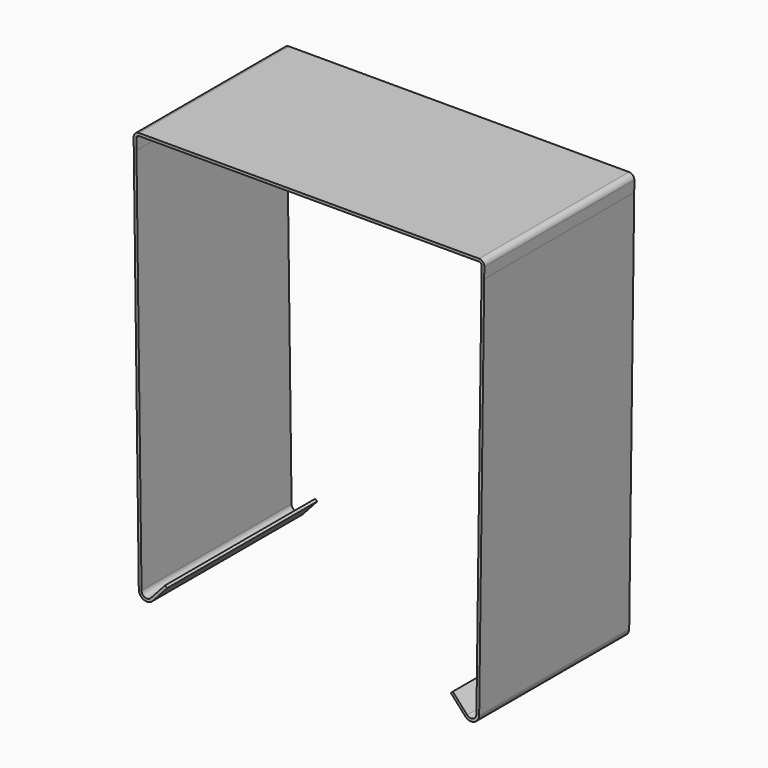
from build123d import *

# Parameters (mm, degrees)
F1_DEPTH = 35


with BuildPart() as f1:
    # F0 (on Front) → F1 (new body)
    with BuildSketch(Plane.XZ):
        with BuildLine():
            Line((12.085786, 0), (0, 0))
            Line((0, 0), (0, -0.5))
            Line((0, -0.5), (12.085786, -0.5))
            Line((12.085786, -0.5), (31.724476, -0.5))
            ThreePointArc((31.724476, -0.5), (32.080347, -0.64878), (32.224432, -1.006578))
            Line((32.224432, -1.006578), (32.197876, -3.025085))
            Line((32.197876, -3.025085), (31.25063, -75.025085))
            ThreePointArc((31.25063, -75.025085), (30.612597, -75.944154), (29.521571, -75.696289))
            Line((29.521571, -75.696289), (26.838608, -72.729523))
            Line((26.838608, -72.729523), (26.467762, -73.064893))
            Line((26.467762, -73.064893), (29.150726, -76.03166))
            ThreePointArc((29.150726, -76.03166), (30.771804, -76.436713), (31.761848, -75.090692))
            Line((31.761848, -75.090692), (32.697247, -3.05017))
            Line((32.697247, -3.05017), (32.723698, -1.012983))
            ThreePointArc((32.723698, -1.012983), (32.435465, -0.297498), (31.723783, 0))
            Line((31.723783, 0), (12.085786, 0))
        make_face()
        with BuildLine():
            Line((0, -0.5), (0, 0))
            Line((0, 0), (-12.085786, 0))
            Line((-12.085786, 0), (-31.723783, 0))
            ThreePointArc((-31.723783, 0), (-32.435465, -0.297498), (-32.723698, -1.012983))
            Line((-32.723698, -1.012983), (-32.697247, -3.05017))
            Line((-32.697247, -3.05017), (-31.761848, -75.090692))
            ThreePointArc((-31.761848, -75.090692), (-30.771804, -76.436713), (-29.150726, -76.03166))
            Line((-29.150726, -76.03166), (-26.467762, -73.064893))
            Line((-26.467762, -73.064893), (-26.838608, -72.729523))
            Line((-26.838608, -72.729523), (-29.521571, -75.696289))
            ThreePointArc((-29.521571, -75.696289), (-30.612597, -75.944154), (-31.25063, -75.025085))
            Line((-31.25063, -75.025085), (-32.197876, -3.025085))
            Line((-32.197876, -3.025085), (-32.224432, -1.006578))
            ThreePointArc((-32.224432, -1.006578), (-32.080347, -0.64878), (-31.724476, -0.5))
            Line((-31.724476, -0.5), (-12.085786, -0.5))
            Line((-12.085786, -0.5), (0, -0.5))
        make_face()
    extrude(amount=F1_DEPTH)


solid = f1.part
